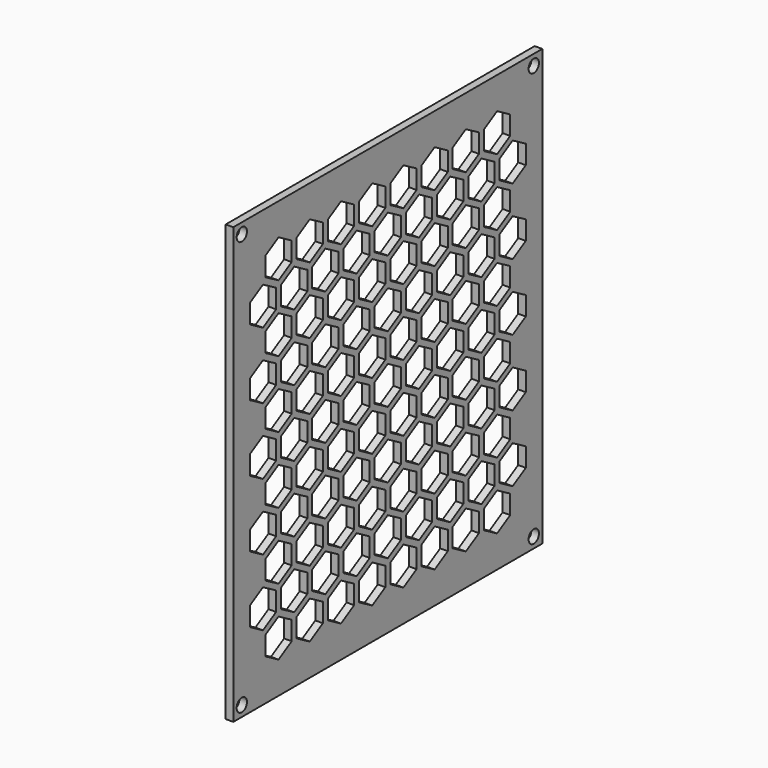
from build123d import *

# Parameters (mm, degrees)
SKETCH016_W                        = 101.8
SKETCH016_H                        = 114.8
SKETCH016_R                        = 1.7
PAD005_DEPTH                       = 2
POCKET017_DEPTH                    = 308.896943
POCKET017_LINEARPATTERN004_2_DEPTH = 308.896943
POCKET017_LINEARPATTERN004_3_DEPTH = 308.896943
POCKET017_LINEARPATTERN004_4_DEPTH = 308.896943
POCKET017_LINEARPATTERN004_5_DEPTH = 308.896943
POCKET017_LINEARPATTERN004_6_DEPTH = 308.896943
POCKET017_LINEARPATTERN004_7_DEPTH = 308.896943
POCKET017_LINEARPATTERN004_8_DEPTH = 308.896943
LINEARPATTERN005_COUNT             = 6
LINEARPATTERN005_PITCH             = 17.6
POCKET018_DEPTH                    = 308.896943
POCKET018_LINEARPATTERN006_2_DEPTH = 308.896943
POCKET018_LINEARPATTERN006_3_DEPTH = 308.896943
POCKET018_LINEARPATTERN006_4_DEPTH = 308.896943
POCKET018_LINEARPATTERN006_5_DEPTH = 308.896943
POCKET018_LINEARPATTERN006_6_DEPTH = 308.896943
POCKET018_LINEARPATTERN006_7_DEPTH = 308.896943
POCKET018_LINEARPATTERN006_8_DEPTH = 308.896943
POCKET018_LINEARPATTERN006_9_DEPTH = 308.896943
LINEARPATTERN007_COUNT             = 5
LINEARPATTERN007_PITCH             = 17.557


with BuildPart() as part:
    # Sketch016 → Pad005 (new body)
    with BuildSketch(Plane.YZ.offset(-60)):
        with Locations((53.5, 60)):
            Rectangle(SKETCH016_W, SKETCH016_H)
        with Locations((5.4, 114.6)):
            Circle(SKETCH016_R, mode=Mode.SUBTRACT)
        with Locations((101.6, 114.6)):
            Circle(SKETCH016_R, mode=Mode.SUBTRACT)
        with Locations((101.6, 5.4)):
            Circle(SKETCH016_R, mode=Mode.SUBTRACT)
        with Locations((5.4, 5.4)):
            Circle(SKETCH016_R, mode=Mode.SUBTRACT)
    extrude(amount=PAD005_DEPTH)

    # Sketch029 → Pocket017 (cut, through all)
    with BuildSketch(Plane.YZ.offset(-60)):
        Polygon((13.169873, 106.5), (13.169873, 101.5), (17.5, 99), (21.830127, 101.5), (21.830127, 106.5), (17.5, 109), align=None)
    pocket017 = extrude(amount=POCKET017_DEPTH, mode=Mode.SUBTRACT)

    # Sketch029 LinearPattern004 2 → Pocket017 LinearPattern004 2 (cut, through all)
    with BuildSketch(Plane(origin=(-60, 10.285714, 0), x_dir=(0, 1, 0), z_dir=(1, 0, 0))):
        Polygon((13.169873, 106.5), (13.169873, 101.5), (17.5, 99), (21.830127, 101.5), (21.830127, 106.5), (17.5, 109), align=None)
    pocket017_linearpattern004_2 = extrude(amount=POCKET017_LINEARPATTERN004_2_DEPTH, mode=Mode.SUBTRACT)

    # Sketch029 LinearPattern004 3 → Pocket017 LinearPattern004 3 (cut, through all)
    with BuildSketch(Plane(origin=(-60, 20.571429, 0), x_dir=(0, 1, 0), z_dir=(1, 0, 0))):
        Polygon((13.169873, 106.5), (13.169873, 101.5), (17.5, 99), (21.830127, 101.5), (21.830127, 106.5), (17.5, 109), align=None)
    pocket017_linearpattern004_3 = extrude(amount=POCKET017_LINEARPATTERN004_3_DEPTH, mode=Mode.SUBTRACT)

    # Sketch029 LinearPattern004 4 → Pocket017 LinearPattern004 4 (cut, through all)
    with BuildSketch(Plane(origin=(-60, 30.857143, 0), x_dir=(0, 1, 0), z_dir=(1, 0, 0))):
        Polygon((13.169873, 106.5), (13.169873, 101.5), (17.5, 99), (21.830127, 101.5), (21.830127, 106.5), (17.5, 109), align=None)
    pocket017_linearpattern004_4 = extrude(amount=POCKET017_LINEARPATTERN004_4_DEPTH, mode=Mode.SUBTRACT)

    # Sketch029 LinearPattern004 5 → Pocket017 LinearPattern004 5 (cut, through all)
    with BuildSketch(Plane(origin=(-60, 41.142857, 0), x_dir=(0, 1, 0), z_dir=(1, 0, 0))):
        Polygon((13.169873, 106.5), (13.169873, 101.5), (17.5, 99), (21.830127, 101.5), (21.830127, 106.5), (17.5, 109), align=None)
    pocket017_linearpattern004_5 = extrude(amount=POCKET017_LINEARPATTERN004_5_DEPTH, mode=Mode.SUBTRACT)

    # Sketch029 LinearPattern004 6 → Pocket017 LinearPattern004 6 (cut, through all)
    with BuildSketch(Plane(origin=(-60, 51.428571, 0), x_dir=(0, 1, 0), z_dir=(1, 0, 0))):
        Polygon((13.169873, 106.5), (13.169873, 101.5), (17.5, 99), (21.830127, 101.5), (21.830127, 106.5), (17.5, 109), align=None)
    pocket017_linearpattern004_6 = extrude(amount=POCKET017_LINEARPATTERN004_6_DEPTH, mode=Mode.SUBTRACT)

    # Sketch029 LinearPattern004 7 → Pocket017 LinearPattern004 7 (cut, through all)
    with BuildSketch(Plane(origin=(-60, 61.714286, 0), x_dir=(0, 1, 0), z_dir=(1, 0, 0))):
        Polygon((13.169873, 106.5), (13.169873, 101.5), (17.5, 99), (21.830127, 101.5), (21.830127, 106.5), (17.5, 109), align=None)
    pocket017_linearpattern004_7 = extrude(amount=POCKET017_LINEARPATTERN004_7_DEPTH, mode=Mode.SUBTRACT)

    # Sketch029 LinearPattern004 8 → Pocket017 LinearPattern004 8 (cut, through all)
    with BuildSketch(Plane(origin=(-60, 72, 0), x_dir=(0, 1, 0), z_dir=(1, 0, 0))):
        Polygon((13.169873, 106.5), (13.169873, 101.5), (17.5, 99), (21.830127, 101.5), (21.830127, 106.5), (17.5, 109), align=None)
    pocket017_linearpattern004_8 = extrude(amount=POCKET017_LINEARPATTERN004_8_DEPTH, mode=Mode.SUBTRACT)

    # LinearPattern005: Pocket017, Pocket017 LinearPattern004 2, Pocket017 LinearPattern004 3, Pocket017 LinearPattern004 4, Pocket017 LinearPattern004 5, Pocket017 LinearPattern004 6, Pocket017 LinearPattern004 7, Pocket017 LinearPattern004 8 ×6
    with Locations(*[(0, 0, -i * LINEARPATTERN005_PITCH) for i in range(1, LINEARPATTERN005_COUNT)]):
        add(pocket017, mode=Mode.SUBTRACT)
        add(pocket017_linearpattern004_2, mode=Mode.SUBTRACT)
        add(pocket017_linearpattern004_3, mode=Mode.SUBTRACT)
        add(pocket017_linearpattern004_4, mode=Mode.SUBTRACT)
        add(pocket017_linearpattern004_5, mode=Mode.SUBTRACT)
        add(pocket017_linearpattern004_6, mode=Mode.SUBTRACT)
        add(pocket017_linearpattern004_7, mode=Mode.SUBTRACT)
        add(pocket017_linearpattern004_8, mode=Mode.SUBTRACT)

    # Sketch030 → Pocket018 (cut, through all)
    with BuildSketch(Plane.YZ.offset(-60)):
        Polygon((12.37, 90.114), (16.700127, 92.614), (16.700127, 97.614), (12.37, 100.114), (8.039873, 97.614), (8.039873, 92.614), align=None)
    pocket018 = extrude(amount=POCKET018_DEPTH, mode=Mode.SUBTRACT)

    # Sketch030 LinearPattern006 2 → Pocket018 LinearPattern006 2 (cut, through all)
    with BuildSketch(Plane(origin=(-60, 10.2825, 0), x_dir=(0, 1, 0), z_dir=(1, 0, 0))):
        Polygon((12.37, 90.114), (16.700127, 92.614), (16.700127, 97.614), (12.37, 100.114), (8.039873, 97.614), (8.039873, 92.614), align=None)
    pocket018_linearpattern006_2 = extrude(amount=POCKET018_LINEARPATTERN006_2_DEPTH, mode=Mode.SUBTRACT)

    # Sketch030 LinearPattern006 3 → Pocket018 LinearPattern006 3 (cut, through all)
    with BuildSketch(Plane(origin=(-60, 20.565, 0), x_dir=(0, 1, 0), z_dir=(1, 0, 0))):
        Polygon((12.37, 90.114), (16.700127, 92.614), (16.700127, 97.614), (12.37, 100.114), (8.039873, 97.614), (8.039873, 92.614), align=None)
    pocket018_linearpattern006_3 = extrude(amount=POCKET018_LINEARPATTERN006_3_DEPTH, mode=Mode.SUBTRACT)

    # Sketch030 LinearPattern006 4 → Pocket018 LinearPattern006 4 (cut, through all)
    with BuildSketch(Plane(origin=(-60, 30.8475, 0), x_dir=(0, 1, 0), z_dir=(1, 0, 0))):
        Polygon((12.37, 90.114), (16.700127, 92.614), (16.700127, 97.614), (12.37, 100.114), (8.039873, 97.614), (8.039873, 92.614), align=None)
    pocket018_linearpattern006_4 = extrude(amount=POCKET018_LINEARPATTERN006_4_DEPTH, mode=Mode.SUBTRACT)

    # Sketch030 LinearPattern006 5 → Pocket018 LinearPattern006 5 (cut, through all)
    with BuildSketch(Plane(origin=(-60, 41.13, 0), x_dir=(0, 1, 0), z_dir=(1, 0, 0))):
        Polygon((12.37, 90.114), (16.700127, 92.614), (16.700127, 97.614), (12.37, 100.114), (8.039873, 97.614), (8.039873, 92.614), align=None)
    pocket018_linearpattern006_5 = extrude(amount=POCKET018_LINEARPATTERN006_5_DEPTH, mode=Mode.SUBTRACT)

    # Sketch030 LinearPattern006 6 → Pocket018 LinearPattern006 6 (cut, through all)
    with BuildSketch(Plane(origin=(-60, 51.4125, 0), x_dir=(0, 1, 0), z_dir=(1, 0, 0))):
        Polygon((12.37, 90.114), (16.700127, 92.614), (16.700127, 97.614), (12.37, 100.114), (8.039873, 97.614), (8.039873, 92.614), align=None)
    pocket018_linearpattern006_6 = extrude(amount=POCKET018_LINEARPATTERN006_6_DEPTH, mode=Mode.SUBTRACT)

    # Sketch030 LinearPattern006 7 → Pocket018 LinearPattern006 7 (cut, through all)
    with BuildSketch(Plane(origin=(-60, 61.695, 0), x_dir=(0, 1, 0), z_dir=(1, 0, 0))):
        Polygon((12.37, 90.114), (16.700127, 92.614), (16.700127, 97.614), (12.37, 100.114), (8.039873, 97.614), (8.039873, 92.614), align=None)
    pocket018_linearpattern006_7 = extrude(amount=POCKET018_LINEARPATTERN006_7_DEPTH, mode=Mode.SUBTRACT)

    # Sketch030 LinearPattern006 8 → Pocket018 LinearPattern006 8 (cut, through all)
    with BuildSketch(Plane(origin=(-60, 71.9775, 0), x_dir=(0, 1, 0), z_dir=(1, 0, 0))):
        Polygon((12.37, 90.114), (16.700127, 92.614), (16.700127, 97.614), (12.37, 100.114), (8.039873, 97.614), (8.039873, 92.614), align=None)
    pocket018_linearpattern006_8 = extrude(amount=POCKET018_LINEARPATTERN006_8_DEPTH, mode=Mode.SUBTRACT)

    # Sketch030 LinearPattern006 9 → Pocket018 LinearPattern006 9 (cut, through all)
    with BuildSketch(Plane(origin=(-60, 82.26, 0), x_dir=(0, 1, 0), z_dir=(1, 0, 0))):
        Polygon((12.37, 90.114), (16.700127, 92.614), (16.700127, 97.614), (12.37, 100.114), (8.039873, 97.614), (8.039873, 92.614), align=None)
    pocket018_linearpattern006_9 = extrude(amount=POCKET018_LINEARPATTERN006_9_DEPTH, mode=Mode.SUBTRACT)

    # LinearPattern007: Pocket018, Pocket018 LinearPattern006 2, Pocket018 LinearPattern006 3, Pocket018 LinearPattern006 4, Pocket018 LinearPattern006 5, Pocket018 LinearPattern006 6, Pocket018 LinearPattern006 7, Pocket018 LinearPattern006 8, Pocket018 LinearPattern006 9 ×5
    with Locations(*[(0, 0, -i * LINEARPATTERN007_PITCH) for i in range(1, LINEARPATTERN007_COUNT)]):
        add(pocket018, mode=Mode.SUBTRACT)
        add(pocket018_linearpattern006_2, mode=Mode.SUBTRACT)
        add(pocket018_linearpattern006_3, mode=Mode.SUBTRACT)
        add(pocket018_linearpattern006_4, mode=Mode.SUBTRACT)
        add(pocket018_linearpattern006_5, mode=Mode.SUBTRACT)
        add(pocket018_linearpattern006_6, mode=Mode.SUBTRACT)
        add(pocket018_linearpattern006_7, mode=Mode.SUBTRACT)
        add(pocket018_linearpattern006_8, mode=Mode.SUBTRACT)
        add(pocket018_linearpattern006_9, mode=Mode.SUBTRACT)


solid = part.part
